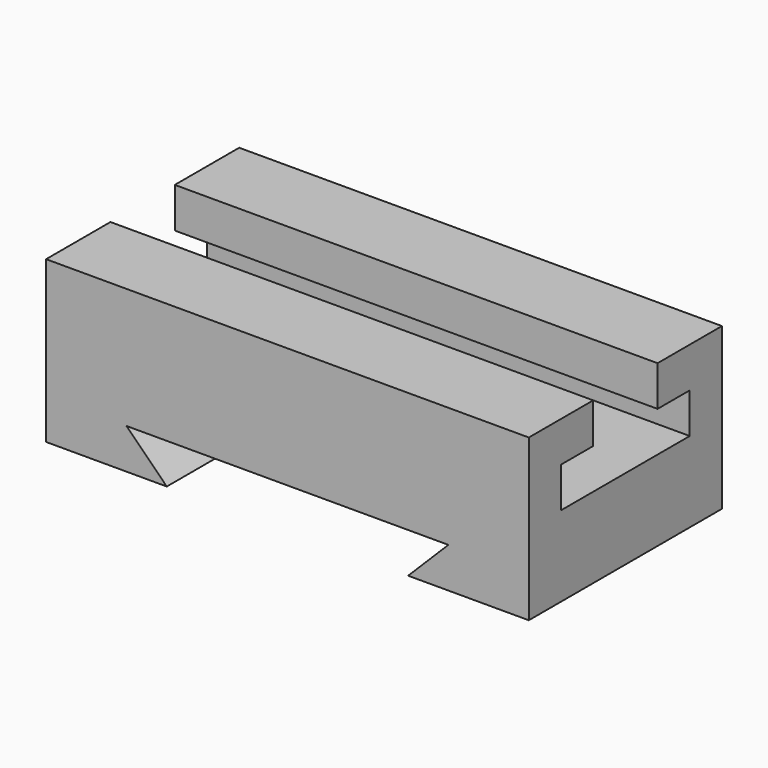
from build123d import *

# Parameters (mm, degrees)
F1_DEPTH = 76.2
F3_DEPTH = 152.4


with BuildPart() as f1:
    # F0 (on Front) → F1 (new body)
    with BuildSketch(Plane.XZ):
        Polygon((-65.331906, -18.670826), (-65.331906, -31.370826), (-27.231906, -31.370826), (-39.931906, -18.670826), (61.668094, -18.670826), (48.968094, -31.370826), (87.068094, -31.370826), (87.068094, 19.429174), (-65.331906, 19.429174), align=None)
    extrude(amount=F1_DEPTH)

    # F2 (on face) → F3 (cut)
    with BuildSketch(Plane.YZ.offset(87.068094)):
        Polygon((-25.4, 19.429174), (-50.8, 19.429174), (-50.8, 6.729174), (-63.5, 6.729174), (-63.5, -5.970826), (-12.7, -5.970826), (-12.7, 6.729174), (-25.4, 6.729174), align=None)
    extrude(amount=-F3_DEPTH, mode=Mode.SUBTRACT)


solid = f1.part
